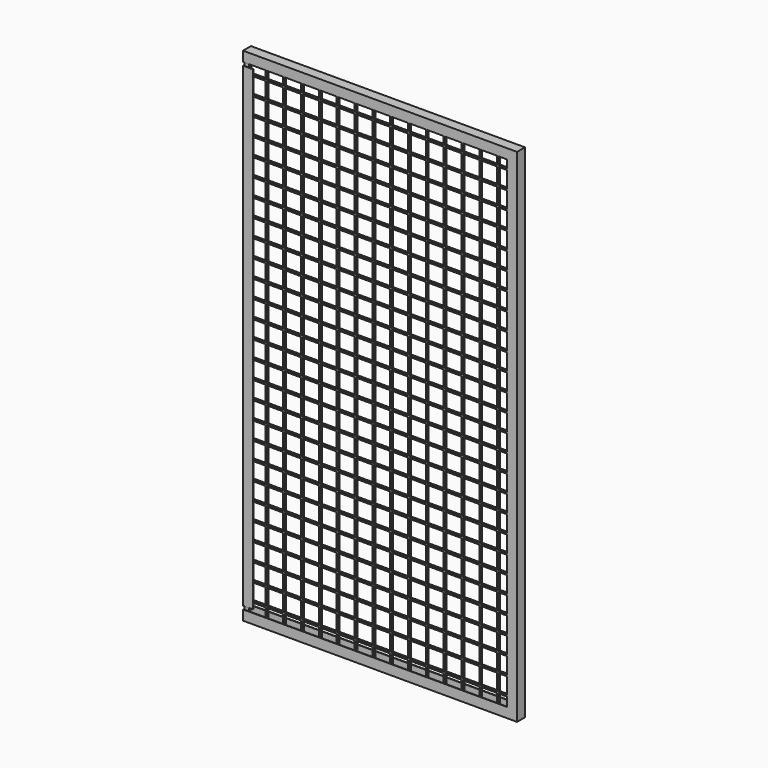
from build123d import *

# Parameters (mm, degrees)
F0_W     = 800
F0_H     = 30
F1_DEPTH = 30
F0_W_2   = 30
F0_H_2   = 1440
F2_T     = -1.5
F2_2_T   = -1.5
F3_W     = 823
F3_H     = 1513
F3_W_2   = 50
F3_H_2   = 50
F4_DEPTH = 6


with BuildPart() as f1:
    # F0 (on Front) → F1 (new body)
    with BuildSketch(Plane.XZ):
        with Locations((400, 1505)):
            Rectangle(F0_W, F0_H)
        Polygon((800, 30), (800, 0), (830, 0), (830, 1520), (800, 1520), (800, 1490), align=None)
        with Locations((400, 15)):
            Rectangle(F0_W, F0_H)
    extrude(amount=F1_DEPTH)

    # F2
    f2_openings = [f1.faces().sort_by_distance(p)[0] for p in [
        (400, -15, 1490),
        (800, -15, 760),
        (400, -15, 30),
        (0, -15, 1505),
        (0, -15, 15),
    ]]
    offset(amount=F2_T, openings=f2_openings)


with BuildPart() as f1b:
    # F0 (on Front) → F1, piece 2 (new body)
    with BuildSketch(Plane.XZ):
        with Locations((15, 760)):
            Rectangle(F0_W_2, F0_H_2)
    extrude(amount=F1_DEPTH)

    # F2#2
    f2_2_openings = [f1b.faces().sort_by_distance(p)[0] for p in [
        (30, -15, 760),
        (15, -15, 1480),
        (15, -15, 40),
        (15, 0, 760),
    ]]
    offset(amount=F2_2_T, openings=f2_2_openings)


with BuildPart() as f4:
    # F3 (on face) → F4 (new body)
    with BuildSketch(Plane(origin=(0, -28.5, 0), x_dir=(-1, 0, 0), z_dir=(0, 1, 0))):
        with Locations((-415, 760)):
            Rectangle(F3_W, F3_H)
        with Locations((-797.5, 31.5)):
            Rectangle(F3_W_2, F3_H_2, mode=Mode.SUBTRACT)
        with Locations((-797.5, 85.5)):
            Rectangle(F3_W_2, F3_H_2, mode=Mode.SUBTRACT)
        with Locations((-743.5, 31.5)):
            Rectangle(F3_W_2, F3_H_2, mode=Mode.SUBTRACT)
        with Locations((-743.5, 85.5)):
            Rectangle(F3_W_2, F3_H_2, mode=Mode.SUBTRACT)
        with Locations((-797.5, 139.5)):
            Rectangle(F3_W_2, F3_H_2, mode=Mode.SUBTRACT)
        with Locations((-743.5, 139.5)):
            Rectangle(F3_W_2, F3_H_2, mode=Mode.SUBTRACT)
        with Locations((-689.5, 31.5)):
            Rectangle(F3_W_2, F3_H_2, mode=Mode.SUBTRACT)
        with Locations((-689.5, 85.5)):
            Rectangle(F3_W_2, F3_H_2, mode=Mode.SUBTRACT)
        with Locations((-635.5, 31.5)):
            Rectangle(F3_W_2, F3_H_2, mode=Mode.SUBTRACT)
        with Locations((-635.5, 85.5)):
            Rectangle(F3_W_2, F3_H_2, mode=Mode.SUBTRACT)
        with Locations((-689.5, 139.5)):
            Rectangle(F3_W_2, F3_H_2, mode=Mode.SUBTRACT)
        with Locations((-635.5, 139.5)):
            Rectangle(F3_W_2, F3_H_2, mode=Mode.SUBTRACT)
        with Locations((-797.5, 193.5)):
            Rectangle(F3_W_2, F3_H_2, mode=Mode.SUBTRACT)
        with Locations((-797.5, 247.5)):
            Rectangle(F3_W_2, F3_H_2, mode=Mode.SUBTRACT)
        with Locations((-743.5, 193.5)):
            Rectangle(F3_W_2, F3_H_2, mode=Mode.SUBTRACT)
        with Locations((-743.5, 247.5)):
            Rectangle(F3_W_2, F3_H_2, mode=Mode.SUBTRACT)
        with Locations((-797.5, 301.5)):
            Rectangle(F3_W_2, F3_H_2, mode=Mode.SUBTRACT)
        with Locations((-797.5, 355.5)):
            Rectangle(F3_W_2, F3_H_2, mode=Mode.SUBTRACT)
        with Locations((-743.5, 301.5)):
            Rectangle(F3_W_2, F3_H_2, mode=Mode.SUBTRACT)
        with Locations((-743.5, 355.5)):
            Rectangle(F3_W_2, F3_H_2, mode=Mode.SUBTRACT)
        with Locations((-689.5, 193.5)):
            Rectangle(F3_W_2, F3_H_2, mode=Mode.SUBTRACT)
        with Locations((-689.5, 247.5)):
            Rectangle(F3_W_2, F3_H_2, mode=Mode.SUBTRACT)
        with Locations((-635.5, 193.5)):
            Rectangle(F3_W_2, F3_H_2, mode=Mode.SUBTRACT)
        with Locations((-635.5, 247.5)):
            Rectangle(F3_W_2, F3_H_2, mode=Mode.SUBTRACT)
        with Locations((-689.5, 301.5)):
            Rectangle(F3_W_2, F3_H_2, mode=Mode.SUBTRACT)
        with Locations((-689.5, 355.5)):
            Rectangle(F3_W_2, F3_H_2, mode=Mode.SUBTRACT)
        with Locations((-635.5, 301.5)):
            Rectangle(F3_W_2, F3_H_2, mode=Mode.SUBTRACT)
        with Locations((-635.5, 355.5)):
            Rectangle(F3_W_2, F3_H_2, mode=Mode.SUBTRACT)
        with Locations((-581.5, 31.5)):
            Rectangle(F3_W_2, F3_H_2, mode=Mode.SUBTRACT)
        with Locations((-581.5, 85.5)):
            Rectangle(F3_W_2, F3_H_2, mode=Mode.SUBTRACT)
        with Locations((-527.5, 31.5)):
            Rectangle(F3_W_2, F3_H_2, mode=Mode.SUBTRACT)
        with Locations((-527.5, 85.5)):
            Rectangle(F3_W_2, F3_H_2, mode=Mode.SUBTRACT)
        with Locations((-581.5, 139.5)):
            Rectangle(F3_W_2, F3_H_2, mode=Mode.SUBTRACT)
        with Locations((-527.5, 139.5)):
            Rectangle(F3_W_2, F3_H_2, mode=Mode.SUBTRACT)
        with Locations((-473.5, 31.5)):
            Rectangle(F3_W_2, F3_H_2, mode=Mode.SUBTRACT)
        with Locations((-473.5, 85.5)):
            Rectangle(F3_W_2, F3_H_2, mode=Mode.SUBTRACT)
        with Locations((-419.5, 31.5)):
            Rectangle(F3_W_2, F3_H_2, mode=Mode.SUBTRACT)
        with Locations((-419.5, 85.5)):
            Rectangle(F3_W_2, F3_H_2, mode=Mode.SUBTRACT)
        with Locations((-473.5, 139.5)):
            Rectangle(F3_W_2, F3_H_2, mode=Mode.SUBTRACT)
        with Locations((-419.5, 139.5)):
            Rectangle(F3_W_2, F3_H_2, mode=Mode.SUBTRACT)
        with Locations((-581.5, 193.5)):
            Rectangle(F3_W_2, F3_H_2, mode=Mode.SUBTRACT)
        with Locations((-581.5, 247.5)):
            Rectangle(F3_W_2, F3_H_2, mode=Mode.SUBTRACT)
        with Locations((-527.5, 193.5)):
            Rectangle(F3_W_2, F3_H_2, mode=Mode.SUBTRACT)
        with Locations((-527.5, 247.5)):
            Rectangle(F3_W_2, F3_H_2, mode=Mode.SUBTRACT)
        with Locations((-581.5, 301.5)):
            Rectangle(F3_W_2, F3_H_2, mode=Mode.SUBTRACT)
        with Locations((-581.5, 355.5)):
            Rectangle(F3_W_2, F3_H_2, mode=Mode.SUBTRACT)
        with Locations((-527.5, 301.5)):
            Rectangle(F3_W_2, F3_H_2, mode=Mode.SUBTRACT)
        with Locations((-527.5, 355.5)):
            Rectangle(F3_W_2, F3_H_2, mode=Mode.SUBTRACT)
        with Locations((-473.5, 193.5)):
            Rectangle(F3_W_2, F3_H_2, mode=Mode.SUBTRACT)
        with Locations((-473.5, 247.5)):
            Rectangle(F3_W_2, F3_H_2, mode=Mode.SUBTRACT)
        with Locations((-419.5, 193.5)):
            Rectangle(F3_W_2, F3_H_2, mode=Mode.SUBTRACT)
        with Locations((-419.5, 247.5)):
            Rectangle(F3_W_2, F3_H_2, mode=Mode.SUBTRACT)
        with Locations((-473.5, 301.5)):
            Rectangle(F3_W_2, F3_H_2, mode=Mode.SUBTRACT)
        with Locations((-473.5, 355.5)):
            Rectangle(F3_W_2, F3_H_2, mode=Mode.SUBTRACT)
        with Locations((-419.5, 301.5)):
            Rectangle(F3_W_2, F3_H_2, mode=Mode.SUBTRACT)
        with Locations((-419.5, 355.5)):
            Rectangle(F3_W_2, F3_H_2, mode=Mode.SUBTRACT)
        with Locations((-797.5, 409.5)):
            Rectangle(F3_W_2, F3_H_2, mode=Mode.SUBTRACT)
        with Locations((-797.5, 463.5)):
            Rectangle(F3_W_2, F3_H_2, mode=Mode.SUBTRACT)
        with Locations((-743.5, 409.5)):
            Rectangle(F3_W_2, F3_H_2, mode=Mode.SUBTRACT)
        with Locations((-743.5, 463.5)):
            Rectangle(F3_W_2, F3_H_2, mode=Mode.SUBTRACT)
        with Locations((-797.5, 517.5)):
            Rectangle(F3_W_2, F3_H_2, mode=Mode.SUBTRACT)
        with Locations((-743.5, 517.5)):
            Rectangle(F3_W_2, F3_H_2, mode=Mode.SUBTRACT)
        with Locations((-689.5, 409.5)):
            Rectangle(F3_W_2, F3_H_2, mode=Mode.SUBTRACT)
        with Locations((-689.5, 463.5)):
            Rectangle(F3_W_2, F3_H_2, mode=Mode.SUBTRACT)
        with Locations((-635.5, 409.5)):
            Rectangle(F3_W_2, F3_H_2, mode=Mode.SUBTRACT)
        with Locations((-635.5, 463.5)):
            Rectangle(F3_W_2, F3_H_2, mode=Mode.SUBTRACT)
        with Locations((-689.5, 517.5)):
            Rectangle(F3_W_2, F3_H_2, mode=Mode.SUBTRACT)
        with Locations((-635.5, 517.5)):
            Rectangle(F3_W_2, F3_H_2, mode=Mode.SUBTRACT)
        with Locations((-797.5, 571.5)):
            Rectangle(F3_W_2, F3_H_2, mode=Mode.SUBTRACT)
        with Locations((-797.5, 625.5)):
            Rectangle(F3_W_2, F3_H_2, mode=Mode.SUBTRACT)
        with Locations((-743.5, 571.5)):
            Rectangle(F3_W_2, F3_H_2, mode=Mode.SUBTRACT)
        with Locations((-743.5, 625.5)):
            Rectangle(F3_W_2, F3_H_2, mode=Mode.SUBTRACT)
        with Locations((-797.5, 679.5)):
            Rectangle(F3_W_2, F3_H_2, mode=Mode.SUBTRACT)
        with Locations((-797.5, 733.5)):
            Rectangle(F3_W_2, F3_H_2, mode=Mode.SUBTRACT)
        with Locations((-743.5, 679.5)):
            Rectangle(F3_W_2, F3_H_2, mode=Mode.SUBTRACT)
        with Locations((-743.5, 733.5)):
            Rectangle(F3_W_2, F3_H_2, mode=Mode.SUBTRACT)
        with Locations((-689.5, 571.5)):
            Rectangle(F3_W_2, F3_H_2, mode=Mode.SUBTRACT)
        with Locations((-689.5, 625.5)):
            Rectangle(F3_W_2, F3_H_2, mode=Mode.SUBTRACT)
        with Locations((-635.5, 571.5)):
            Rectangle(F3_W_2, F3_H_2, mode=Mode.SUBTRACT)
        with Locations((-635.5, 625.5)):
            Rectangle(F3_W_2, F3_H_2, mode=Mode.SUBTRACT)
        with Locations((-689.5, 679.5)):
            Rectangle(F3_W_2, F3_H_2, mode=Mode.SUBTRACT)
        with Locations((-689.5, 733.5)):
            Rectangle(F3_W_2, F3_H_2, mode=Mode.SUBTRACT)
        with Locations((-635.5, 679.5)):
            Rectangle(F3_W_2, F3_H_2, mode=Mode.SUBTRACT)
        with Locations((-635.5, 733.5)):
            Rectangle(F3_W_2, F3_H_2, mode=Mode.SUBTRACT)
        with Locations((-581.5, 409.5)):
            Rectangle(F3_W_2, F3_H_2, mode=Mode.SUBTRACT)
        with Locations((-581.5, 463.5)):
            Rectangle(F3_W_2, F3_H_2, mode=Mode.SUBTRACT)
        with Locations((-527.5, 409.5)):
            Rectangle(F3_W_2, F3_H_2, mode=Mode.SUBTRACT)
        with Locations((-527.5, 463.5)):
            Rectangle(F3_W_2, F3_H_2, mode=Mode.SUBTRACT)
        with Locations((-581.5, 517.5)):
            Rectangle(F3_W_2, F3_H_2, mode=Mode.SUBTRACT)
        with Locations((-527.5, 517.5)):
            Rectangle(F3_W_2, F3_H_2, mode=Mode.SUBTRACT)
        with Locations((-473.5, 409.5)):
            Rectangle(F3_W_2, F3_H_2, mode=Mode.SUBTRACT)
        with Locations((-473.5, 463.5)):
            Rectangle(F3_W_2, F3_H_2, mode=Mode.SUBTRACT)
        with Locations((-419.5, 409.5)):
            Rectangle(F3_W_2, F3_H_2, mode=Mode.SUBTRACT)
        with Locations((-419.5, 463.5)):
            Rectangle(F3_W_2, F3_H_2, mode=Mode.SUBTRACT)
        with Locations((-473.5, 517.5)):
            Rectangle(F3_W_2, F3_H_2, mode=Mode.SUBTRACT)
        with Locations((-419.5, 517.5)):
            Rectangle(F3_W_2, F3_H_2, mode=Mode.SUBTRACT)
        with Locations((-581.5, 571.5)):
            Rectangle(F3_W_2, F3_H_2, mode=Mode.SUBTRACT)
        with Locations((-581.5, 625.5)):
            Rectangle(F3_W_2, F3_H_2, mode=Mode.SUBTRACT)
        with Locations((-527.5, 571.5)):
            Rectangle(F3_W_2, F3_H_2, mode=Mode.SUBTRACT)
        with Locations((-527.5, 625.5)):
            Rectangle(F3_W_2, F3_H_2, mode=Mode.SUBTRACT)
        with Locations((-581.5, 679.5)):
            Rectangle(F3_W_2, F3_H_2, mode=Mode.SUBTRACT)
        with Locations((-581.5, 733.5)):
            Rectangle(F3_W_2, F3_H_2, mode=Mode.SUBTRACT)
        with Locations((-527.5, 679.5)):
            Rectangle(F3_W_2, F3_H_2, mode=Mode.SUBTRACT)
        with Locations((-527.5, 733.5)):
            Rectangle(F3_W_2, F3_H_2, mode=Mode.SUBTRACT)
        with Locations((-473.5, 571.5)):
            Rectangle(F3_W_2, F3_H_2, mode=Mode.SUBTRACT)
        with Locations((-473.5, 625.5)):
            Rectangle(F3_W_2, F3_H_2, mode=Mode.SUBTRACT)
        with Locations((-419.5, 571.5)):
            Rectangle(F3_W_2, F3_H_2, mode=Mode.SUBTRACT)
        with Locations((-419.5, 625.5)):
            Rectangle(F3_W_2, F3_H_2, mode=Mode.SUBTRACT)
        with Locations((-473.5, 679.5)):
            Rectangle(F3_W_2, F3_H_2, mode=Mode.SUBTRACT)
        with Locations((-473.5, 733.5)):
            Rectangle(F3_W_2, F3_H_2, mode=Mode.SUBTRACT)
        with Locations((-419.5, 679.5)):
            Rectangle(F3_W_2, F3_H_2, mode=Mode.SUBTRACT)
        with Locations((-419.5, 733.5)):
            Rectangle(F3_W_2, F3_H_2, mode=Mode.SUBTRACT)
        with Locations((-365.5, 31.5)):
            Rectangle(F3_W_2, F3_H_2, mode=Mode.SUBTRACT)
        with Locations((-365.5, 85.5)):
            Rectangle(F3_W_2, F3_H_2, mode=Mode.SUBTRACT)
        with Locations((-365.5, 139.5)):
            Rectangle(F3_W_2, F3_H_2, mode=Mode.SUBTRACT)
        with Locations((-311.5, 31.5)):
            Rectangle(F3_W_2, F3_H_2, mode=Mode.SUBTRACT)
        with Locations((-311.5, 85.5)):
            Rectangle(F3_W_2, F3_H_2, mode=Mode.SUBTRACT)
        with Locations((-257.5, 31.5)):
            Rectangle(F3_W_2, F3_H_2, mode=Mode.SUBTRACT)
        with Locations((-257.5, 85.5)):
            Rectangle(F3_W_2, F3_H_2, mode=Mode.SUBTRACT)
        with Locations((-311.5, 139.5)):
            Rectangle(F3_W_2, F3_H_2, mode=Mode.SUBTRACT)
        with Locations((-257.5, 139.5)):
            Rectangle(F3_W_2, F3_H_2, mode=Mode.SUBTRACT)
        with Locations((-365.5, 193.5)):
            Rectangle(F3_W_2, F3_H_2, mode=Mode.SUBTRACT)
        with Locations((-365.5, 247.5)):
            Rectangle(F3_W_2, F3_H_2, mode=Mode.SUBTRACT)
        with Locations((-365.5, 301.5)):
            Rectangle(F3_W_2, F3_H_2, mode=Mode.SUBTRACT)
        with Locations((-365.5, 355.5)):
            Rectangle(F3_W_2, F3_H_2, mode=Mode.SUBTRACT)
        with Locations((-311.5, 193.5)):
            Rectangle(F3_W_2, F3_H_2, mode=Mode.SUBTRACT)
        with Locations((-311.5, 247.5)):
            Rectangle(F3_W_2, F3_H_2, mode=Mode.SUBTRACT)
        with Locations((-257.5, 193.5)):
            Rectangle(F3_W_2, F3_H_2, mode=Mode.SUBTRACT)
        with Locations((-257.5, 247.5)):
            Rectangle(F3_W_2, F3_H_2, mode=Mode.SUBTRACT)
        with Locations((-311.5, 301.5)):
            Rectangle(F3_W_2, F3_H_2, mode=Mode.SUBTRACT)
        with Locations((-311.5, 355.5)):
            Rectangle(F3_W_2, F3_H_2, mode=Mode.SUBTRACT)
        with Locations((-257.5, 301.5)):
            Rectangle(F3_W_2, F3_H_2, mode=Mode.SUBTRACT)
        with Locations((-257.5, 355.5)):
            Rectangle(F3_W_2, F3_H_2, mode=Mode.SUBTRACT)
        with Locations((-203.5, 31.5)):
            Rectangle(F3_W_2, F3_H_2, mode=Mode.SUBTRACT)
        with Locations((-203.5, 85.5)):
            Rectangle(F3_W_2, F3_H_2, mode=Mode.SUBTRACT)
        with Locations((-149.5, 31.5)):
            Rectangle(F3_W_2, F3_H_2, mode=Mode.SUBTRACT)
        with Locations((-149.5, 85.5)):
            Rectangle(F3_W_2, F3_H_2, mode=Mode.SUBTRACT)
        with Locations((-203.5, 139.5)):
            Rectangle(F3_W_2, F3_H_2, mode=Mode.SUBTRACT)
        with Locations((-149.5, 139.5)):
            Rectangle(F3_W_2, F3_H_2, mode=Mode.SUBTRACT)
        with Locations((-95.5, 31.5)):
            Rectangle(F3_W_2, F3_H_2, mode=Mode.SUBTRACT)
        with Locations((-95.5, 85.5)):
            Rectangle(F3_W_2, F3_H_2, mode=Mode.SUBTRACT)
        with Locations((-41.5, 31.5)):
            Rectangle(F3_W_2, F3_H_2, mode=Mode.SUBTRACT)
        with Locations((-41.5, 85.5)):
            Rectangle(F3_W_2, F3_H_2, mode=Mode.SUBTRACT)
        with Locations((-95.5, 139.5)):
            Rectangle(F3_W_2, F3_H_2, mode=Mode.SUBTRACT)
        with Locations((-41.5, 139.5)):
            Rectangle(F3_W_2, F3_H_2, mode=Mode.SUBTRACT)
        with Locations((-203.5, 193.5)):
            Rectangle(F3_W_2, F3_H_2, mode=Mode.SUBTRACT)
        with Locations((-203.5, 247.5)):
            Rectangle(F3_W_2, F3_H_2, mode=Mode.SUBTRACT)
        with Locations((-149.5, 193.5)):
            Rectangle(F3_W_2, F3_H_2, mode=Mode.SUBTRACT)
        with Locations((-149.5, 247.5)):
            Rectangle(F3_W_2, F3_H_2, mode=Mode.SUBTRACT)
        with Locations((-203.5, 301.5)):
            Rectangle(F3_W_2, F3_H_2, mode=Mode.SUBTRACT)
        with Locations((-203.5, 355.5)):
            Rectangle(F3_W_2, F3_H_2, mode=Mode.SUBTRACT)
        with Locations((-149.5, 301.5)):
            Rectangle(F3_W_2, F3_H_2, mode=Mode.SUBTRACT)
        with Locations((-149.5, 355.5)):
            Rectangle(F3_W_2, F3_H_2, mode=Mode.SUBTRACT)
        with Locations((-95.5, 193.5)):
            Rectangle(F3_W_2, F3_H_2, mode=Mode.SUBTRACT)
        with Locations((-95.5, 247.5)):
            Rectangle(F3_W_2, F3_H_2, mode=Mode.SUBTRACT)
        with Locations((-41.5, 193.5)):
            Rectangle(F3_W_2, F3_H_2, mode=Mode.SUBTRACT)
        with Locations((-41.5, 247.5)):
            Rectangle(F3_W_2, F3_H_2, mode=Mode.SUBTRACT)
        with Locations((-95.5, 301.5)):
            Rectangle(F3_W_2, F3_H_2, mode=Mode.SUBTRACT)
        with Locations((-95.5, 355.5)):
            Rectangle(F3_W_2, F3_H_2, mode=Mode.SUBTRACT)
        with Locations((-41.5, 301.5)):
            Rectangle(F3_W_2, F3_H_2, mode=Mode.SUBTRACT)
        with Locations((-41.5, 355.5)):
            Rectangle(F3_W_2, F3_H_2, mode=Mode.SUBTRACT)
        with Locations((-365.5, 409.5)):
            Rectangle(F3_W_2, F3_H_2, mode=Mode.SUBTRACT)
        with Locations((-365.5, 463.5)):
            Rectangle(F3_W_2, F3_H_2, mode=Mode.SUBTRACT)
        with Locations((-365.5, 517.5)):
            Rectangle(F3_W_2, F3_H_2, mode=Mode.SUBTRACT)
        with Locations((-311.5, 409.5)):
            Rectangle(F3_W_2, F3_H_2, mode=Mode.SUBTRACT)
        with Locations((-311.5, 463.5)):
            Rectangle(F3_W_2, F3_H_2, mode=Mode.SUBTRACT)
        with Locations((-257.5, 409.5)):
            Rectangle(F3_W_2, F3_H_2, mode=Mode.SUBTRACT)
        with Locations((-257.5, 463.5)):
            Rectangle(F3_W_2, F3_H_2, mode=Mode.SUBTRACT)
        with Locations((-311.5, 517.5)):
            Rectangle(F3_W_2, F3_H_2, mode=Mode.SUBTRACT)
        with Locations((-257.5, 517.5)):
            Rectangle(F3_W_2, F3_H_2, mode=Mode.SUBTRACT)
        with Locations((-365.5, 571.5)):
            Rectangle(F3_W_2, F3_H_2, mode=Mode.SUBTRACT)
        with Locations((-365.5, 625.5)):
            Rectangle(F3_W_2, F3_H_2, mode=Mode.SUBTRACT)
        with Locations((-365.5, 679.5)):
            Rectangle(F3_W_2, F3_H_2, mode=Mode.SUBTRACT)
        with Locations((-365.5, 733.5)):
            Rectangle(F3_W_2, F3_H_2, mode=Mode.SUBTRACT)
        with Locations((-311.5, 571.5)):
            Rectangle(F3_W_2, F3_H_2, mode=Mode.SUBTRACT)
        with Locations((-311.5, 625.5)):
            Rectangle(F3_W_2, F3_H_2, mode=Mode.SUBTRACT)
        with Locations((-257.5, 571.5)):
            Rectangle(F3_W_2, F3_H_2, mode=Mode.SUBTRACT)
        with Locations((-257.5, 625.5)):
            Rectangle(F3_W_2, F3_H_2, mode=Mode.SUBTRACT)
        with Locations((-311.5, 679.5)):
            Rectangle(F3_W_2, F3_H_2, mode=Mode.SUBTRACT)
        with Locations((-311.5, 733.5)):
            Rectangle(F3_W_2, F3_H_2, mode=Mode.SUBTRACT)
        with Locations((-257.5, 679.5)):
            Rectangle(F3_W_2, F3_H_2, mode=Mode.SUBTRACT)
        with Locations((-257.5, 733.5)):
            Rectangle(F3_W_2, F3_H_2, mode=Mode.SUBTRACT)
        with Locations((-203.5, 409.5)):
            Rectangle(F3_W_2, F3_H_2, mode=Mode.SUBTRACT)
        with Locations((-203.5, 463.5)):
            Rectangle(F3_W_2, F3_H_2, mode=Mode.SUBTRACT)
        with Locations((-149.5, 409.5)):
            Rectangle(F3_W_2, F3_H_2, mode=Mode.SUBTRACT)
        with Locations((-149.5, 463.5)):
            Rectangle(F3_W_2, F3_H_2, mode=Mode.SUBTRACT)
        with Locations((-203.5, 517.5)):
            Rectangle(F3_W_2, F3_H_2, mode=Mode.SUBTRACT)
        with Locations((-149.5, 517.5)):
            Rectangle(F3_W_2, F3_H_2, mode=Mode.SUBTRACT)
        with Locations((-95.5, 409.5)):
            Rectangle(F3_W_2, F3_H_2, mode=Mode.SUBTRACT)
        with Locations((-95.5, 463.5)):
            Rectangle(F3_W_2, F3_H_2, mode=Mode.SUBTRACT)
        with Locations((-41.5, 409.5)):
            Rectangle(F3_W_2, F3_H_2, mode=Mode.SUBTRACT)
        with Locations((-41.5, 463.5)):
            Rectangle(F3_W_2, F3_H_2, mode=Mode.SUBTRACT)
        with Locations((-95.5, 517.5)):
            Rectangle(F3_W_2, F3_H_2, mode=Mode.SUBTRACT)
        with Locations((-41.5, 517.5)):
            Rectangle(F3_W_2, F3_H_2, mode=Mode.SUBTRACT)
        with Locations((-203.5, 571.5)):
            Rectangle(F3_W_2, F3_H_2, mode=Mode.SUBTRACT)
        with Locations((-203.5, 625.5)):
            Rectangle(F3_W_2, F3_H_2, mode=Mode.SUBTRACT)
        with Locations((-149.5, 571.5)):
            Rectangle(F3_W_2, F3_H_2, mode=Mode.SUBTRACT)
        with Locations((-149.5, 625.5)):
            Rectangle(F3_W_2, F3_H_2, mode=Mode.SUBTRACT)
        with Locations((-203.5, 679.5)):
            Rectangle(F3_W_2, F3_H_2, mode=Mode.SUBTRACT)
        with Locations((-203.5, 733.5)):
            Rectangle(F3_W_2, F3_H_2, mode=Mode.SUBTRACT)
        with Locations((-149.5, 679.5)):
            Rectangle(F3_W_2, F3_H_2, mode=Mode.SUBTRACT)
        with Locations((-149.5, 733.5)):
            Rectangle(F3_W_2, F3_H_2, mode=Mode.SUBTRACT)
        with Locations((-95.5, 571.5)):
            Rectangle(F3_W_2, F3_H_2, mode=Mode.SUBTRACT)
        with Locations((-95.5, 625.5)):
            Rectangle(F3_W_2, F3_H_2, mode=Mode.SUBTRACT)
        with Locations((-41.5, 571.5)):
            Rectangle(F3_W_2, F3_H_2, mode=Mode.SUBTRACT)
        with Locations((-41.5, 625.5)):
            Rectangle(F3_W_2, F3_H_2, mode=Mode.SUBTRACT)
        with Locations((-95.5, 679.5)):
            Rectangle(F3_W_2, F3_H_2, mode=Mode.SUBTRACT)
        with Locations((-95.5, 733.5)):
            Rectangle(F3_W_2, F3_H_2, mode=Mode.SUBTRACT)
        with Locations((-41.5, 679.5)):
            Rectangle(F3_W_2, F3_H_2, mode=Mode.SUBTRACT)
        with Locations((-41.5, 733.5)):
            Rectangle(F3_W_2, F3_H_2, mode=Mode.SUBTRACT)
        with Locations((-797.5, 787.5)):
            Rectangle(F3_W_2, F3_H_2, mode=Mode.SUBTRACT)
        with Locations((-797.5, 841.5)):
            Rectangle(F3_W_2, F3_H_2, mode=Mode.SUBTRACT)
        with Locations((-743.5, 787.5)):
            Rectangle(F3_W_2, F3_H_2, mode=Mode.SUBTRACT)
        with Locations((-743.5, 841.5)):
            Rectangle(F3_W_2, F3_H_2, mode=Mode.SUBTRACT)
        with Locations((-797.5, 895.5)):
            Rectangle(F3_W_2, F3_H_2, mode=Mode.SUBTRACT)
        with Locations((-743.5, 895.5)):
            Rectangle(F3_W_2, F3_H_2, mode=Mode.SUBTRACT)
        with Locations((-689.5, 787.5)):
            Rectangle(F3_W_2, F3_H_2, mode=Mode.SUBTRACT)
        with Locations((-689.5, 841.5)):
            Rectangle(F3_W_2, F3_H_2, mode=Mode.SUBTRACT)
        with Locations((-635.5, 787.5)):
            Rectangle(F3_W_2, F3_H_2, mode=Mode.SUBTRACT)
        with Locations((-635.5, 841.5)):
            Rectangle(F3_W_2, F3_H_2, mode=Mode.SUBTRACT)
        with Locations((-689.5, 895.5)):
            Rectangle(F3_W_2, F3_H_2, mode=Mode.SUBTRACT)
        with Locations((-635.5, 895.5)):
            Rectangle(F3_W_2, F3_H_2, mode=Mode.SUBTRACT)
        with Locations((-797.5, 949.5)):
            Rectangle(F3_W_2, F3_H_2, mode=Mode.SUBTRACT)
        with Locations((-797.5, 1003.5)):
            Rectangle(F3_W_2, F3_H_2, mode=Mode.SUBTRACT)
        with Locations((-743.5, 949.5)):
            Rectangle(F3_W_2, F3_H_2, mode=Mode.SUBTRACT)
        with Locations((-743.5, 1003.5)):
            Rectangle(F3_W_2, F3_H_2, mode=Mode.SUBTRACT)
        with Locations((-797.5, 1057.5)):
            Rectangle(F3_W_2, F3_H_2, mode=Mode.SUBTRACT)
        with Locations((-797.5, 1111.5)):
            Rectangle(F3_W_2, F3_H_2, mode=Mode.SUBTRACT)
        with Locations((-743.5, 1057.5)):
            Rectangle(F3_W_2, F3_H_2, mode=Mode.SUBTRACT)
        with Locations((-743.5, 1111.5)):
            Rectangle(F3_W_2, F3_H_2, mode=Mode.SUBTRACT)
        with Locations((-689.5, 949.5)):
            Rectangle(F3_W_2, F3_H_2, mode=Mode.SUBTRACT)
        with Locations((-689.5, 1003.5)):
            Rectangle(F3_W_2, F3_H_2, mode=Mode.SUBTRACT)
        with Locations((-635.5, 949.5)):
            Rectangle(F3_W_2, F3_H_2, mode=Mode.SUBTRACT)
        with Locations((-635.5, 1003.5)):
            Rectangle(F3_W_2, F3_H_2, mode=Mode.SUBTRACT)
        with Locations((-689.5, 1057.5)):
            Rectangle(F3_W_2, F3_H_2, mode=Mode.SUBTRACT)
        with Locations((-689.5, 1111.5)):
            Rectangle(F3_W_2, F3_H_2, mode=Mode.SUBTRACT)
        with Locations((-635.5, 1057.5)):
            Rectangle(F3_W_2, F3_H_2, mode=Mode.SUBTRACT)
        with Locations((-635.5, 1111.5)):
            Rectangle(F3_W_2, F3_H_2, mode=Mode.SUBTRACT)
        with Locations((-581.5, 787.5)):
            Rectangle(F3_W_2, F3_H_2, mode=Mode.SUBTRACT)
        with Locations((-581.5, 841.5)):
            Rectangle(F3_W_2, F3_H_2, mode=Mode.SUBTRACT)
        with Locations((-527.5, 787.5)):
            Rectangle(F3_W_2, F3_H_2, mode=Mode.SUBTRACT)
        with Locations((-527.5, 841.5)):
            Rectangle(F3_W_2, F3_H_2, mode=Mode.SUBTRACT)
        with Locations((-581.5, 895.5)):
            Rectangle(F3_W_2, F3_H_2, mode=Mode.SUBTRACT)
        with Locations((-527.5, 895.5)):
            Rectangle(F3_W_2, F3_H_2, mode=Mode.SUBTRACT)
        with Locations((-473.5, 787.5)):
            Rectangle(F3_W_2, F3_H_2, mode=Mode.SUBTRACT)
        with Locations((-473.5, 841.5)):
            Rectangle(F3_W_2, F3_H_2, mode=Mode.SUBTRACT)
        with Locations((-419.5, 787.5)):
            Rectangle(F3_W_2, F3_H_2, mode=Mode.SUBTRACT)
        with Locations((-419.5, 841.5)):
            Rectangle(F3_W_2, F3_H_2, mode=Mode.SUBTRACT)
        with Locations((-473.5, 895.5)):
            Rectangle(F3_W_2, F3_H_2, mode=Mode.SUBTRACT)
        with Locations((-419.5, 895.5)):
            Rectangle(F3_W_2, F3_H_2, mode=Mode.SUBTRACT)
        with Locations((-581.5, 949.5)):
            Rectangle(F3_W_2, F3_H_2, mode=Mode.SUBTRACT)
        with Locations((-581.5, 1003.5)):
            Rectangle(F3_W_2, F3_H_2, mode=Mode.SUBTRACT)
        with Locations((-527.5, 949.5)):
            Rectangle(F3_W_2, F3_H_2, mode=Mode.SUBTRACT)
        with Locations((-527.5, 1003.5)):
            Rectangle(F3_W_2, F3_H_2, mode=Mode.SUBTRACT)
        with Locations((-581.5, 1057.5)):
            Rectangle(F3_W_2, F3_H_2, mode=Mode.SUBTRACT)
        with Locations((-581.5, 1111.5)):
            Rectangle(F3_W_2, F3_H_2, mode=Mode.SUBTRACT)
        with Locations((-527.5, 1057.5)):
            Rectangle(F3_W_2, F3_H_2, mode=Mode.SUBTRACT)
        with Locations((-527.5, 1111.5)):
            Rectangle(F3_W_2, F3_H_2, mode=Mode.SUBTRACT)
        with Locations((-473.5, 949.5)):
            Rectangle(F3_W_2, F3_H_2, mode=Mode.SUBTRACT)
        with Locations((-473.5, 1003.5)):
            Rectangle(F3_W_2, F3_H_2, mode=Mode.SUBTRACT)
        with Locations((-419.5, 949.5)):
            Rectangle(F3_W_2, F3_H_2, mode=Mode.SUBTRACT)
        with Locations((-419.5, 1003.5)):
            Rectangle(F3_W_2, F3_H_2, mode=Mode.SUBTRACT)
        with Locations((-473.5, 1057.5)):
            Rectangle(F3_W_2, F3_H_2, mode=Mode.SUBTRACT)
        with Locations((-473.5, 1111.5)):
            Rectangle(F3_W_2, F3_H_2, mode=Mode.SUBTRACT)
        with Locations((-419.5, 1057.5)):
            Rectangle(F3_W_2, F3_H_2, mode=Mode.SUBTRACT)
        with Locations((-419.5, 1111.5)):
            Rectangle(F3_W_2, F3_H_2, mode=Mode.SUBTRACT)
        with Locations((-797.5, 1165.5)):
            Rectangle(F3_W_2, F3_H_2, mode=Mode.SUBTRACT)
        with Locations((-797.5, 1219.5)):
            Rectangle(F3_W_2, F3_H_2, mode=Mode.SUBTRACT)
        with Locations((-743.5, 1165.5)):
            Rectangle(F3_W_2, F3_H_2, mode=Mode.SUBTRACT)
        with Locations((-743.5, 1219.5)):
            Rectangle(F3_W_2, F3_H_2, mode=Mode.SUBTRACT)
        with Locations((-797.5, 1273.5)):
            Rectangle(F3_W_2, F3_H_2, mode=Mode.SUBTRACT)
        with Locations((-743.5, 1273.5)):
            Rectangle(F3_W_2, F3_H_2, mode=Mode.SUBTRACT)
        with Locations((-689.5, 1165.5)):
            Rectangle(F3_W_2, F3_H_2, mode=Mode.SUBTRACT)
        with Locations((-689.5, 1219.5)):
            Rectangle(F3_W_2, F3_H_2, mode=Mode.SUBTRACT)
        with Locations((-635.5, 1165.5)):
            Rectangle(F3_W_2, F3_H_2, mode=Mode.SUBTRACT)
        with Locations((-635.5, 1219.5)):
            Rectangle(F3_W_2, F3_H_2, mode=Mode.SUBTRACT)
        with Locations((-689.5, 1273.5)):
            Rectangle(F3_W_2, F3_H_2, mode=Mode.SUBTRACT)
        with Locations((-635.5, 1273.5)):
            Rectangle(F3_W_2, F3_H_2, mode=Mode.SUBTRACT)
        with Locations((-797.5, 1327.5)):
            Rectangle(F3_W_2, F3_H_2, mode=Mode.SUBTRACT)
        with Locations((-797.5, 1381.5)):
            Rectangle(F3_W_2, F3_H_2, mode=Mode.SUBTRACT)
        with Locations((-743.5, 1327.5)):
            Rectangle(F3_W_2, F3_H_2, mode=Mode.SUBTRACT)
        with Locations((-743.5, 1381.5)):
            Rectangle(F3_W_2, F3_H_2, mode=Mode.SUBTRACT)
        with Locations((-797.5, 1435.5)):
            Rectangle(F3_W_2, F3_H_2, mode=Mode.SUBTRACT)
        with Locations((-797.5, 1489.5)):
            Rectangle(F3_W_2, F3_H_2, mode=Mode.SUBTRACT)
        with Locations((-743.5, 1435.5)):
            Rectangle(F3_W_2, F3_H_2, mode=Mode.SUBTRACT)
        with Locations((-743.5, 1489.5)):
            Rectangle(F3_W_2, F3_H_2, mode=Mode.SUBTRACT)
        with Locations((-689.5, 1327.5)):
            Rectangle(F3_W_2, F3_H_2, mode=Mode.SUBTRACT)
        with Locations((-689.5, 1381.5)):
            Rectangle(F3_W_2, F3_H_2, mode=Mode.SUBTRACT)
        with Locations((-635.5, 1327.5)):
            Rectangle(F3_W_2, F3_H_2, mode=Mode.SUBTRACT)
        with Locations((-635.5, 1381.5)):
            Rectangle(F3_W_2, F3_H_2, mode=Mode.SUBTRACT)
        with Locations((-689.5, 1435.5)):
            Rectangle(F3_W_2, F3_H_2, mode=Mode.SUBTRACT)
        with Locations((-689.5, 1489.5)):
            Rectangle(F3_W_2, F3_H_2, mode=Mode.SUBTRACT)
        with Locations((-635.5, 1435.5)):
            Rectangle(F3_W_2, F3_H_2, mode=Mode.SUBTRACT)
        with Locations((-635.5, 1489.5)):
            Rectangle(F3_W_2, F3_H_2, mode=Mode.SUBTRACT)
        with Locations((-581.5, 1165.5)):
            Rectangle(F3_W_2, F3_H_2, mode=Mode.SUBTRACT)
        with Locations((-581.5, 1219.5)):
            Rectangle(F3_W_2, F3_H_2, mode=Mode.SUBTRACT)
        with Locations((-527.5, 1165.5)):
            Rectangle(F3_W_2, F3_H_2, mode=Mode.SUBTRACT)
        with Locations((-527.5, 1219.5)):
            Rectangle(F3_W_2, F3_H_2, mode=Mode.SUBTRACT)
        with Locations((-581.5, 1273.5)):
            Rectangle(F3_W_2, F3_H_2, mode=Mode.SUBTRACT)
        with Locations((-527.5, 1273.5)):
            Rectangle(F3_W_2, F3_H_2, mode=Mode.SUBTRACT)
        with Locations((-473.5, 1165.5)):
            Rectangle(F3_W_2, F3_H_2, mode=Mode.SUBTRACT)
        with Locations((-473.5, 1219.5)):
            Rectangle(F3_W_2, F3_H_2, mode=Mode.SUBTRACT)
        with Locations((-419.5, 1165.5)):
            Rectangle(F3_W_2, F3_H_2, mode=Mode.SUBTRACT)
        with Locations((-419.5, 1219.5)):
            Rectangle(F3_W_2, F3_H_2, mode=Mode.SUBTRACT)
        with Locations((-473.5, 1273.5)):
            Rectangle(F3_W_2, F3_H_2, mode=Mode.SUBTRACT)
        with Locations((-419.5, 1273.5)):
            Rectangle(F3_W_2, F3_H_2, mode=Mode.SUBTRACT)
        with Locations((-581.5, 1327.5)):
            Rectangle(F3_W_2, F3_H_2, mode=Mode.SUBTRACT)
        with Locations((-581.5, 1381.5)):
            Rectangle(F3_W_2, F3_H_2, mode=Mode.SUBTRACT)
        with Locations((-527.5, 1327.5)):
            Rectangle(F3_W_2, F3_H_2, mode=Mode.SUBTRACT)
        with Locations((-527.5, 1381.5)):
            Rectangle(F3_W_2, F3_H_2, mode=Mode.SUBTRACT)
        with Locations((-581.5, 1435.5)):
            Rectangle(F3_W_2, F3_H_2, mode=Mode.SUBTRACT)
        with Locations((-581.5, 1489.5)):
            Rectangle(F3_W_2, F3_H_2, mode=Mode.SUBTRACT)
        with Locations((-527.5, 1435.5)):
            Rectangle(F3_W_2, F3_H_2, mode=Mode.SUBTRACT)
        with Locations((-527.5, 1489.5)):
            Rectangle(F3_W_2, F3_H_2, mode=Mode.SUBTRACT)
        with Locations((-473.5, 1327.5)):
            Rectangle(F3_W_2, F3_H_2, mode=Mode.SUBTRACT)
        with Locations((-473.5, 1381.5)):
            Rectangle(F3_W_2, F3_H_2, mode=Mode.SUBTRACT)
        with Locations((-419.5, 1327.5)):
            Rectangle(F3_W_2, F3_H_2, mode=Mode.SUBTRACT)
        with Locations((-419.5, 1381.5)):
            Rectangle(F3_W_2, F3_H_2, mode=Mode.SUBTRACT)
        with Locations((-473.5, 1435.5)):
            Rectangle(F3_W_2, F3_H_2, mode=Mode.SUBTRACT)
        with Locations((-473.5, 1489.5)):
            Rectangle(F3_W_2, F3_H_2, mode=Mode.SUBTRACT)
        with Locations((-419.5, 1435.5)):
            Rectangle(F3_W_2, F3_H_2, mode=Mode.SUBTRACT)
        with Locations((-419.5, 1489.5)):
            Rectangle(F3_W_2, F3_H_2, mode=Mode.SUBTRACT)
        with Locations((-365.5, 787.5)):
            Rectangle(F3_W_2, F3_H_2, mode=Mode.SUBTRACT)
        with Locations((-365.5, 841.5)):
            Rectangle(F3_W_2, F3_H_2, mode=Mode.SUBTRACT)
        with Locations((-365.5, 895.5)):
            Rectangle(F3_W_2, F3_H_2, mode=Mode.SUBTRACT)
        with Locations((-311.5, 787.5)):
            Rectangle(F3_W_2, F3_H_2, mode=Mode.SUBTRACT)
        with Locations((-311.5, 841.5)):
            Rectangle(F3_W_2, F3_H_2, mode=Mode.SUBTRACT)
        with Locations((-257.5, 787.5)):
            Rectangle(F3_W_2, F3_H_2, mode=Mode.SUBTRACT)
        with Locations((-257.5, 841.5)):
            Rectangle(F3_W_2, F3_H_2, mode=Mode.SUBTRACT)
        with Locations((-311.5, 895.5)):
            Rectangle(F3_W_2, F3_H_2, mode=Mode.SUBTRACT)
        with Locations((-257.5, 895.5)):
            Rectangle(F3_W_2, F3_H_2, mode=Mode.SUBTRACT)
        with Locations((-365.5, 949.5)):
            Rectangle(F3_W_2, F3_H_2, mode=Mode.SUBTRACT)
        with Locations((-365.5, 1003.5)):
            Rectangle(F3_W_2, F3_H_2, mode=Mode.SUBTRACT)
        with Locations((-365.5, 1057.5)):
            Rectangle(F3_W_2, F3_H_2, mode=Mode.SUBTRACT)
        with Locations((-365.5, 1111.5)):
            Rectangle(F3_W_2, F3_H_2, mode=Mode.SUBTRACT)
        with Locations((-311.5, 949.5)):
            Rectangle(F3_W_2, F3_H_2, mode=Mode.SUBTRACT)
        with Locations((-311.5, 1003.5)):
            Rectangle(F3_W_2, F3_H_2, mode=Mode.SUBTRACT)
        with Locations((-257.5, 949.5)):
            Rectangle(F3_W_2, F3_H_2, mode=Mode.SUBTRACT)
        with Locations((-257.5, 1003.5)):
            Rectangle(F3_W_2, F3_H_2, mode=Mode.SUBTRACT)
        with Locations((-311.5, 1057.5)):
            Rectangle(F3_W_2, F3_H_2, mode=Mode.SUBTRACT)
        with Locations((-311.5, 1111.5)):
            Rectangle(F3_W_2, F3_H_2, mode=Mode.SUBTRACT)
        with Locations((-257.5, 1057.5)):
            Rectangle(F3_W_2, F3_H_2, mode=Mode.SUBTRACT)
        with Locations((-257.5, 1111.5)):
            Rectangle(F3_W_2, F3_H_2, mode=Mode.SUBTRACT)
        with Locations((-203.5, 787.5)):
            Rectangle(F3_W_2, F3_H_2, mode=Mode.SUBTRACT)
        with Locations((-203.5, 841.5)):
            Rectangle(F3_W_2, F3_H_2, mode=Mode.SUBTRACT)
        with Locations((-149.5, 787.5)):
            Rectangle(F3_W_2, F3_H_2, mode=Mode.SUBTRACT)
        with Locations((-149.5, 841.5)):
            Rectangle(F3_W_2, F3_H_2, mode=Mode.SUBTRACT)
        with Locations((-203.5, 895.5)):
            Rectangle(F3_W_2, F3_H_2, mode=Mode.SUBTRACT)
        with Locations((-149.5, 895.5)):
            Rectangle(F3_W_2, F3_H_2, mode=Mode.SUBTRACT)
        with Locations((-95.5, 787.5)):
            Rectangle(F3_W_2, F3_H_2, mode=Mode.SUBTRACT)
        with Locations((-95.5, 841.5)):
            Rectangle(F3_W_2, F3_H_2, mode=Mode.SUBTRACT)
        with Locations((-41.5, 787.5)):
            Rectangle(F3_W_2, F3_H_2, mode=Mode.SUBTRACT)
        with Locations((-41.5, 841.5)):
            Rectangle(F3_W_2, F3_H_2, mode=Mode.SUBTRACT)
        with Locations((-95.5, 895.5)):
            Rectangle(F3_W_2, F3_H_2, mode=Mode.SUBTRACT)
        with Locations((-41.5, 895.5)):
            Rectangle(F3_W_2, F3_H_2, mode=Mode.SUBTRACT)
        with Locations((-203.5, 949.5)):
            Rectangle(F3_W_2, F3_H_2, mode=Mode.SUBTRACT)
        with Locations((-203.5, 1003.5)):
            Rectangle(F3_W_2, F3_H_2, mode=Mode.SUBTRACT)
        with Locations((-149.5, 949.5)):
            Rectangle(F3_W_2, F3_H_2, mode=Mode.SUBTRACT)
        with Locations((-149.5, 1003.5)):
            Rectangle(F3_W_2, F3_H_2, mode=Mode.SUBTRACT)
        with Locations((-203.5, 1057.5)):
            Rectangle(F3_W_2, F3_H_2, mode=Mode.SUBTRACT)
        with Locations((-203.5, 1111.5)):
            Rectangle(F3_W_2, F3_H_2, mode=Mode.SUBTRACT)
        with Locations((-149.5, 1057.5)):
            Rectangle(F3_W_2, F3_H_2, mode=Mode.SUBTRACT)
        with Locations((-149.5, 1111.5)):
            Rectangle(F3_W_2, F3_H_2, mode=Mode.SUBTRACT)
        with Locations((-95.5, 949.5)):
            Rectangle(F3_W_2, F3_H_2, mode=Mode.SUBTRACT)
        with Locations((-95.5, 1003.5)):
            Rectangle(F3_W_2, F3_H_2, mode=Mode.SUBTRACT)
        with Locations((-41.5, 949.5)):
            Rectangle(F3_W_2, F3_H_2, mode=Mode.SUBTRACT)
        with Locations((-41.5, 1003.5)):
            Rectangle(F3_W_2, F3_H_2, mode=Mode.SUBTRACT)
        with Locations((-95.5, 1057.5)):
            Rectangle(F3_W_2, F3_H_2, mode=Mode.SUBTRACT)
        with Locations((-95.5, 1111.5)):
            Rectangle(F3_W_2, F3_H_2, mode=Mode.SUBTRACT)
        with Locations((-41.5, 1057.5)):
            Rectangle(F3_W_2, F3_H_2, mode=Mode.SUBTRACT)
        with Locations((-41.5, 1111.5)):
            Rectangle(F3_W_2, F3_H_2, mode=Mode.SUBTRACT)
        with Locations((-365.5, 1165.5)):
            Rectangle(F3_W_2, F3_H_2, mode=Mode.SUBTRACT)
        with Locations((-365.5, 1219.5)):
            Rectangle(F3_W_2, F3_H_2, mode=Mode.SUBTRACT)
        with Locations((-365.5, 1273.5)):
            Rectangle(F3_W_2, F3_H_2, mode=Mode.SUBTRACT)
        with Locations((-311.5, 1165.5)):
            Rectangle(F3_W_2, F3_H_2, mode=Mode.SUBTRACT)
        with Locations((-311.5, 1219.5)):
            Rectangle(F3_W_2, F3_H_2, mode=Mode.SUBTRACT)
        with Locations((-257.5, 1165.5)):
            Rectangle(F3_W_2, F3_H_2, mode=Mode.SUBTRACT)
        with Locations((-257.5, 1219.5)):
            Rectangle(F3_W_2, F3_H_2, mode=Mode.SUBTRACT)
        with Locations((-311.5, 1273.5)):
            Rectangle(F3_W_2, F3_H_2, mode=Mode.SUBTRACT)
        with Locations((-257.5, 1273.5)):
            Rectangle(F3_W_2, F3_H_2, mode=Mode.SUBTRACT)
        with Locations((-365.5, 1327.5)):
            Rectangle(F3_W_2, F3_H_2, mode=Mode.SUBTRACT)
        with Locations((-365.5, 1381.5)):
            Rectangle(F3_W_2, F3_H_2, mode=Mode.SUBTRACT)
        with Locations((-365.5, 1435.5)):
            Rectangle(F3_W_2, F3_H_2, mode=Mode.SUBTRACT)
        with Locations((-365.5, 1489.5)):
            Rectangle(F3_W_2, F3_H_2, mode=Mode.SUBTRACT)
        with Locations((-311.5, 1327.5)):
            Rectangle(F3_W_2, F3_H_2, mode=Mode.SUBTRACT)
        with Locations((-311.5, 1381.5)):
            Rectangle(F3_W_2, F3_H_2, mode=Mode.SUBTRACT)
        with Locations((-257.5, 1327.5)):
            Rectangle(F3_W_2, F3_H_2, mode=Mode.SUBTRACT)
        with Locations((-257.5, 1381.5)):
            Rectangle(F3_W_2, F3_H_2, mode=Mode.SUBTRACT)
        with Locations((-311.5, 1435.5)):
            Rectangle(F3_W_2, F3_H_2, mode=Mode.SUBTRACT)
        with Locations((-311.5, 1489.5)):
            Rectangle(F3_W_2, F3_H_2, mode=Mode.SUBTRACT)
        with Locations((-257.5, 1435.5)):
            Rectangle(F3_W_2, F3_H_2, mode=Mode.SUBTRACT)
        with Locations((-257.5, 1489.5)):
            Rectangle(F3_W_2, F3_H_2, mode=Mode.SUBTRACT)
        with Locations((-203.5, 1165.5)):
            Rectangle(F3_W_2, F3_H_2, mode=Mode.SUBTRACT)
        with Locations((-203.5, 1219.5)):
            Rectangle(F3_W_2, F3_H_2, mode=Mode.SUBTRACT)
        with Locations((-149.5, 1165.5)):
            Rectangle(F3_W_2, F3_H_2, mode=Mode.SUBTRACT)
        with Locations((-149.5, 1219.5)):
            Rectangle(F3_W_2, F3_H_2, mode=Mode.SUBTRACT)
        with Locations((-203.5, 1273.5)):
            Rectangle(F3_W_2, F3_H_2, mode=Mode.SUBTRACT)
        with Locations((-149.5, 1273.5)):
            Rectangle(F3_W_2, F3_H_2, mode=Mode.SUBTRACT)
        with Locations((-95.5, 1165.5)):
            Rectangle(F3_W_2, F3_H_2, mode=Mode.SUBTRACT)
        with Locations((-95.5, 1219.5)):
            Rectangle(F3_W_2, F3_H_2, mode=Mode.SUBTRACT)
        with Locations((-41.5, 1165.5)):
            Rectangle(F3_W_2, F3_H_2, mode=Mode.SUBTRACT)
        with Locations((-41.5, 1219.5)):
            Rectangle(F3_W_2, F3_H_2, mode=Mode.SUBTRACT)
        with Locations((-95.5, 1273.5)):
            Rectangle(F3_W_2, F3_H_2, mode=Mode.SUBTRACT)
        with Locations((-41.5, 1273.5)):
            Rectangle(F3_W_2, F3_H_2, mode=Mode.SUBTRACT)
        with Locations((-203.5, 1327.5)):
            Rectangle(F3_W_2, F3_H_2, mode=Mode.SUBTRACT)
        with Locations((-203.5, 1381.5)):
            Rectangle(F3_W_2, F3_H_2, mode=Mode.SUBTRACT)
        with Locations((-149.5, 1327.5)):
            Rectangle(F3_W_2, F3_H_2, mode=Mode.SUBTRACT)
        with Locations((-149.5, 1381.5)):
            Rectangle(F3_W_2, F3_H_2, mode=Mode.SUBTRACT)
        with Locations((-203.5, 1435.5)):
            Rectangle(F3_W_2, F3_H_2, mode=Mode.SUBTRACT)
        with Locations((-203.5, 1489.5)):
            Rectangle(F3_W_2, F3_H_2, mode=Mode.SUBTRACT)
        with Locations((-149.5, 1435.5)):
            Rectangle(F3_W_2, F3_H_2, mode=Mode.SUBTRACT)
        with Locations((-149.5, 1489.5)):
            Rectangle(F3_W_2, F3_H_2, mode=Mode.SUBTRACT)
        with Locations((-95.5, 1327.5)):
            Rectangle(F3_W_2, F3_H_2, mode=Mode.SUBTRACT)
        with Locations((-95.5, 1381.5)):
            Rectangle(F3_W_2, F3_H_2, mode=Mode.SUBTRACT)
        with Locations((-41.5, 1327.5)):
            Rectangle(F3_W_2, F3_H_2, mode=Mode.SUBTRACT)
        with Locations((-41.5, 1381.5)):
            Rectangle(F3_W_2, F3_H_2, mode=Mode.SUBTRACT)
        with Locations((-95.5, 1435.5)):
            Rectangle(F3_W_2, F3_H_2, mode=Mode.SUBTRACT)
        with Locations((-95.5, 1489.5)):
            Rectangle(F3_W_2, F3_H_2, mode=Mode.SUBTRACT)
        with Locations((-41.5, 1435.5)):
            Rectangle(F3_W_2, F3_H_2, mode=Mode.SUBTRACT)
        with Locations((-41.5, 1489.5)):
            Rectangle(F3_W_2, F3_H_2, mode=Mode.SUBTRACT)
    extrude(amount=F4_DEPTH)


solid = Compound([f1.part, f1b.part, f4.part])
